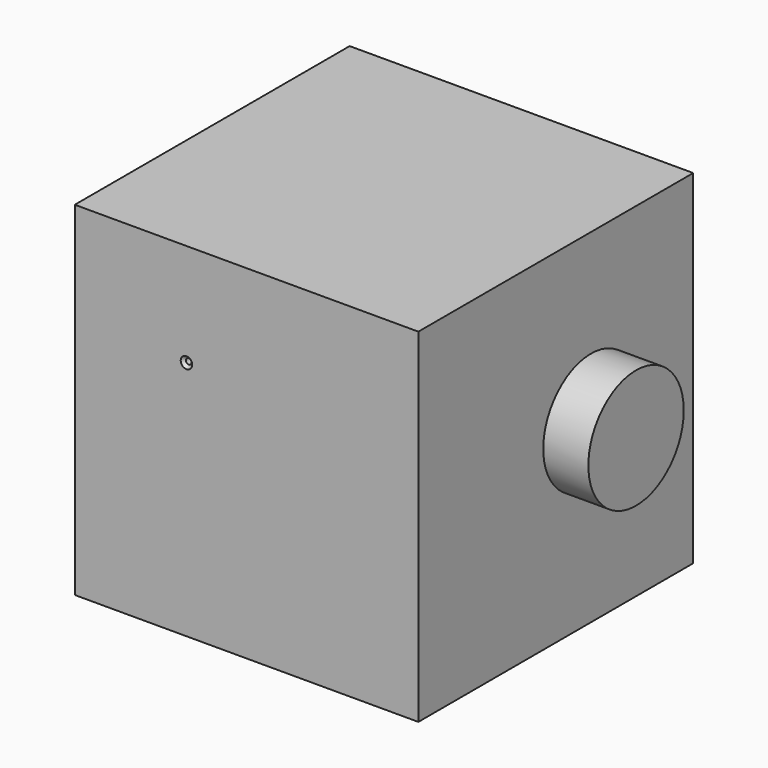
from build123d import *

# Parameters (mm, degrees)
F0_W           = 381
F0_H           = 381
F1_DEPTH       = 381
F3_D           = 6.35
F3_CSINK_D     = 12.7
F3_CSINK_ANGLE = 90
F4_R           = 66.123945
F5_DEPTH       = 50


with BuildPart() as f1:
    # F0 (on Front) → F1 (new body)
    with BuildSketch(Plane.XZ):
        with Locations((190.5, 190.5)):
            Rectangle(F0_W, F0_H)
    extrude(amount=F1_DEPTH)

    # F3 (through all)
    with Locations(Plane.XZ.offset(381)):
        with Locations((123.825006, 267.081022)):
            CounterSinkHole(F3_D / 2, F3_CSINK_D / 2, counter_sink_angle=F3_CSINK_ANGLE)

    # F4 (on face) → F5 (join)
    with BuildSketch(Plane.YZ.offset(381)):
        with Locations((-141.749784, 196.200415)):
            Circle(F4_R)
    extrude(amount=F5_DEPTH)


solid = f1.part
